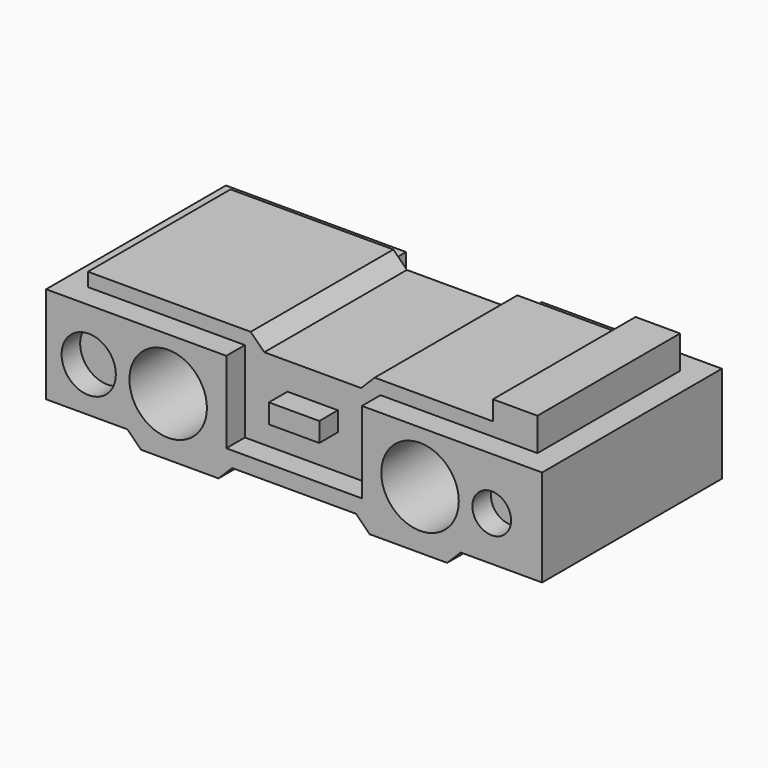
from build123d import *

# Parameters (mm, degrees)
SKETCH022_R     = 1
PAD022_DEPTH    = 2.9
SKETCH026_R     = 0.7
SKETCH026_R_2   = 0.5
SKETCH026_W     = 1.3
SKETCH026_H     = 0.5
POCKET009_DEPTH = 0.6
SKETCH027_R     = 0.7
SKETCH027_W     = 1.3
SKETCH027_H     = 0.5
POCKET010_DEPTH = 0.6


with BuildPart() as part:
    # Sketch022 → Pad022 (new body, symmetric)
    with BuildSketch(Plane.XZ):
        Polygon((-6.4, -1.15), (-4.3, -1.15), (-3.95, -1.5), (-1.95, -1.5), (-1.6, -1.15), (1.6, -1.15), (1.95, -1.5), (3.95, -1.5), (4.3, -1.15), (6.4, -1.15), (6.4, 1.35), (5.8, 1.35), (5.8, 2.2), (4.65, 2.2), (4.65, 1.7), (1.6, 1.7), (1.25, 1.35), (-1.25, 1.35), (-1.6, 1.7), (-5.8, 1.7), (-5.8, 1.35), (-6.4, 1.35), align=None)
        with Locations((-3.25, 0)):
            Circle(SKETCH022_R, mode=Mode.SUBTRACT)
        with Locations((3.25, 0)):
            Circle(SKETCH022_R, mode=Mode.SUBTRACT)
    extrude(amount=PAD022_DEPTH, both=True)

    # Sketch026 (on Face26 of Pad022) → Pocket009 (cut)
    with BuildSketch(Plane.XZ.offset(2.9)):
        with Locations((-5.3, 0)):
            Circle(SKETCH026_R)
        with Locations((5.1, 0)):
            Circle(SKETCH026_R_2)
        Polygon((1.75, 1.35), (1.75, -0.75), (-1.75, -0.75), (-1.75, 1.35), (-6.4, 1.35), (-6.4, 2.2), (6.4, 2.2), (6.4, 1.35), align=None)
        with Locations((0, 0.4)):
            Rectangle(SKETCH026_W, SKETCH026_H, mode=Mode.SUBTRACT)
    extrude(amount=-POCKET009_DEPTH, mode=Mode.SUBTRACT)

    # Sketch027 (on Face4 of Pocket009) → Pocket010 (cut)
    with BuildSketch(Plane(origin=(0, 2.9, 0), x_dir=(1, 0, 0), z_dir=(0, 1, 0))):
        with Locations((5.3, 0)):
            Circle(SKETCH027_R)
        with Locations((-5.3, 0)):
            Circle(SKETCH027_R)
        Polygon((1.75, 0.75), (-1.75, 0.75), (-1.75, -1.35), (-6.4, -1.35), (-6.4, -2.2), (6.4, -2.2), (6.4, -1.35), (1.75, -1.35), align=None)
        with Locations((0, -0.4)):
            Rectangle(SKETCH027_W, SKETCH027_H, mode=Mode.SUBTRACT)
    extrude(amount=-POCKET010_DEPTH, mode=Mode.SUBTRACT)


solid = part.part
